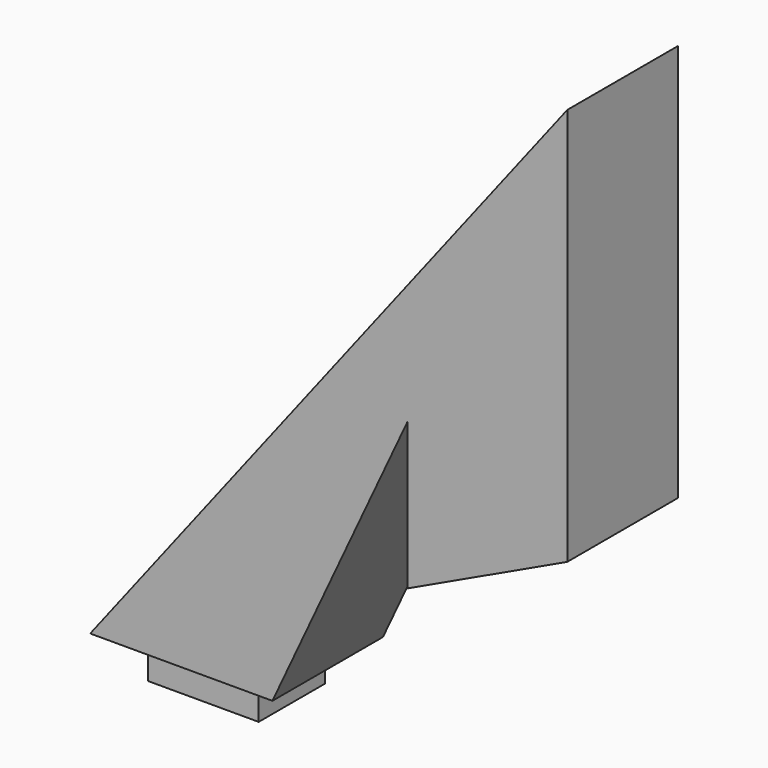
from build123d import *

# Parameters (mm, degrees)
F1_DEPTH = 10
F2_W     = 4
F2_H     = 3
F3_DEPTH = 3


with BuildPart() as f1:
    # F0 (on Front) → F1 (new body)
    with BuildSketch(Plane.XZ):
        Polygon((34.52893, 44.594989), (0, 0), (13.189044, 0), (22.951526, 20.93571), (22.951526, 10.33571), (34.52893, 15.794989), align=None)
    extrude(amount=F1_DEPTH)

    # F2 (on face) → F3 (join)
    with BuildSketch(Plane(origin=(0, 0, 0), x_dir=(1, 0, 0), z_dir=(0, 0, -1))):
        with Locations((8.594522, 6.5)):
            Rectangle(F2_W, F2_H)
        with Locations((4.594522, 6.5)):
            Rectangle(F2_W, F2_H)
        with Locations((8.594522, 3.5)):
            Rectangle(F2_W, F2_H)
        with Locations((4.594522, 3.5)):
            Rectangle(F2_W, F2_H)
    extrude(amount=F3_DEPTH)


solid = f1.part
